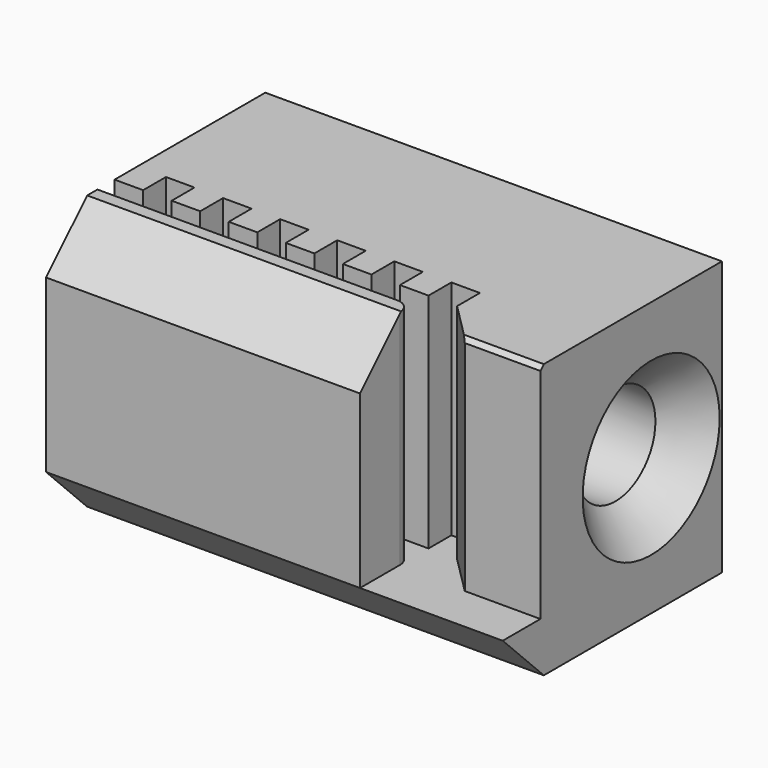
from build123d import *

# Parameters (mm, degrees)
PAD021_DEPTH         = 16
SKETCH081_R          = 1.75
POCKET038_DEPTH      = 12.001
POCKET038_DEPTH_BACK = 4.001
POCKET181_DEPTH      = 7.801
CHAMFER006_SIZE      = 1.25


with BuildPart() as part:
    # Sketch078 → Pad021 (new body)
    with BuildSketch(Plane.YZ):
        Polygon((0, 3), (0, -3), (1.8, -4.8), (9.6, -4.8), (9.6, 4.8), (1.8, 4.8), align=None)
    extrude(amount=-PAD021_DEPTH)

    # Sketch081 → Pocket038 (cut, two sides)
    with BuildSketch(Plane.YZ.offset(-4)) as pocket038_sk:
        with Locations((6.5, 0)):
            Circle(SKETCH081_R)
    extrude(amount=-POCKET038_DEPTH, mode=Mode.SUBTRACT)
    extrude(pocket038_sk.sketch, amount=POCKET038_DEPTH_BACK, mode=Mode.SUBTRACT)

    # Sketch079 → Pocket181 (cut, through all)
    with BuildSketch(Plane.XY.offset(-3)):
        with BuildLine():
            Line((0, 1.65), (-2.65, 1.65))
            Line((-2.65, 1.65), (-4, 3))
            Line((-4, 4), (-4, 3))
            Line((-5, 4), (-4, 4))
            Line((-5, 3), (-5, 4))
            Line((-6, 3), (-5, 3))
            Line((-6, 4), (-6, 3))
            Line((-7, 4), (-6, 4))
            Line((-7, 3), (-7, 4))
            Line((-8, 3), (-7, 3))
            Line((-8, 4), (-8, 3))
            Line((-9, 4), (-8, 4))
            Line((-9, 3), (-9, 4))
            Line((-10, 3), (-9, 3))
            Line((-10, 4), (-10, 3))
            Line((-11, 4), (-10, 4))
            Line((-11, 3), (-11, 4))
            Line((-12, 3), (-11, 3))
            Line((-12, 4), (-12, 3))
            Line((-13, 4), (-12, 4))
            Line((-13, 3), (-13, 4))
            Line((-14, 3), (-13, 3))
            Line((-14, 4), (-14, 3))
            Line((-15, 4), (-14, 4))
            Line((-15, 3), (-15, 4))
            Line((-16, 3), (-15, 3))
            Line((-16, 2.25), (-16, 3))
            Line((-5.5, 2.25), (-16, 2.25))
            ThreePointArc((-5, 1.75), (-5.146447, 2.103553), (-5.5, 2.25))
            Line((-5, 0), (-5, 1.75))
            Line((0, 0), (-5, 0))
            Line((0, 1.65), (0, 0))
        make_face()
    extrude(amount=POCKET181_DEPTH, mode=Mode.SUBTRACT)

    # Chamfer006
    chamfer006_edges = [part.edges().sort_by_distance(p)[0] for p in [
        (0, 4.75, 0),
    ]]
    chamfer(chamfer006_edges, length=CHAMFER006_SIZE)


with BuildPart() as part_1:
    # Body059 placement: moved
    add(part.part.moved(Location((30, 12, 5))))


solid = part_1.part
